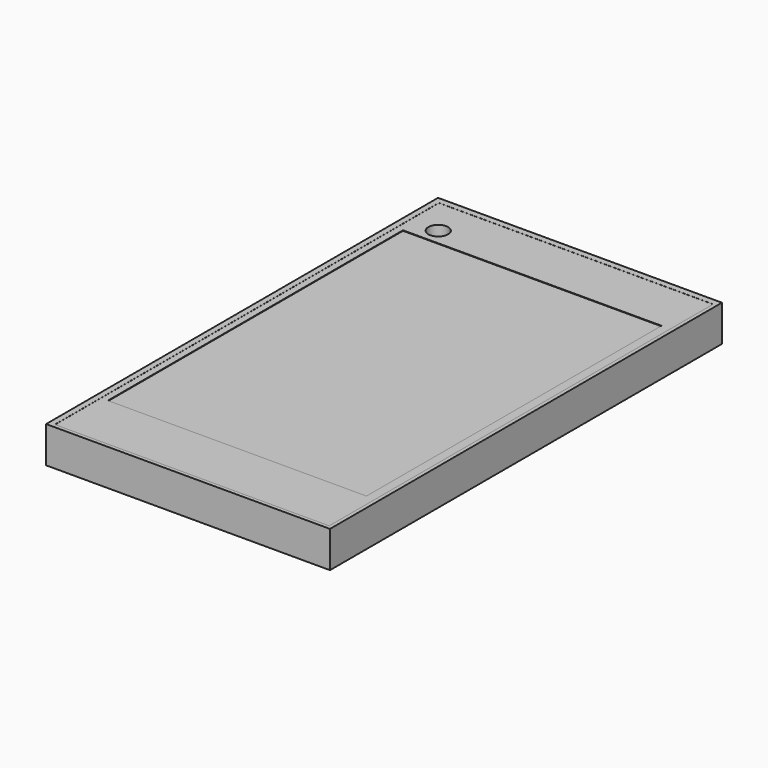
from build123d import *

# Parameters (mm, degrees)
F1_DEPTH = 11.43
F2_W     = 81.271418
F2_H     = 115.942701
F3_DEPTH = 0.1778
F4_W     = 86.214885
F4_H     = 150.880255
F5_DEPTH = 0.0254
F6_R     = 3.101618
F7_DEPTH = 3.81
F8_R     = 2.925267
F9_DEPTH = 0.0254


with BuildPart() as f1:
    # F0 (on Top) → F1 (new body)
    with BuildSketch(Plane.XY):
        Polygon((47.590654, 76.434568), (0, 76.434568), (-41.661378, 76.434568), (-41.661378, 0), (-41.661378, -76.72172), (-41.661378, -77.591054), (0, -77.591054), (47.590654, -77.591054), align=None)
    extrude(amount=F1_DEPTH)

    # F2 (on face) → F3 (cut)
    with BuildSketch(Plane.XY.offset(11.43)):
        with Locations((3.015559, -0.350732)):
            Rectangle(F2_W, F2_H)
    extrude(amount=-F3_DEPTH, mode=Mode.SUBTRACT)

    # F4 (on face) → F5 (cut)
    with BuildSketch(Plane.XY.offset(11.43)):
        with Locations((3.301713, -0.995736)):
            Rectangle(F4_W, F4_H)
    extrude(amount=-F5_DEPTH, mode=Mode.SUBTRACT)

    # F6 (on face) → F7 (cut)
    with BuildSketch(Plane.XY.offset(11.4046)):
        with Locations((-30.738983, 62.852658)):
            Circle(F6_R)
    extrude(amount=-F7_DEPTH, mode=Mode.SUBTRACT)

    # F8 (on face) → F9 (join)
    with BuildSketch(Plane.XY.offset(7.5946)):
        with Locations((-30.738983, 62.852658)):
            Circle(F8_R)
    extrude(amount=F9_DEPTH)


solid = f1.part
